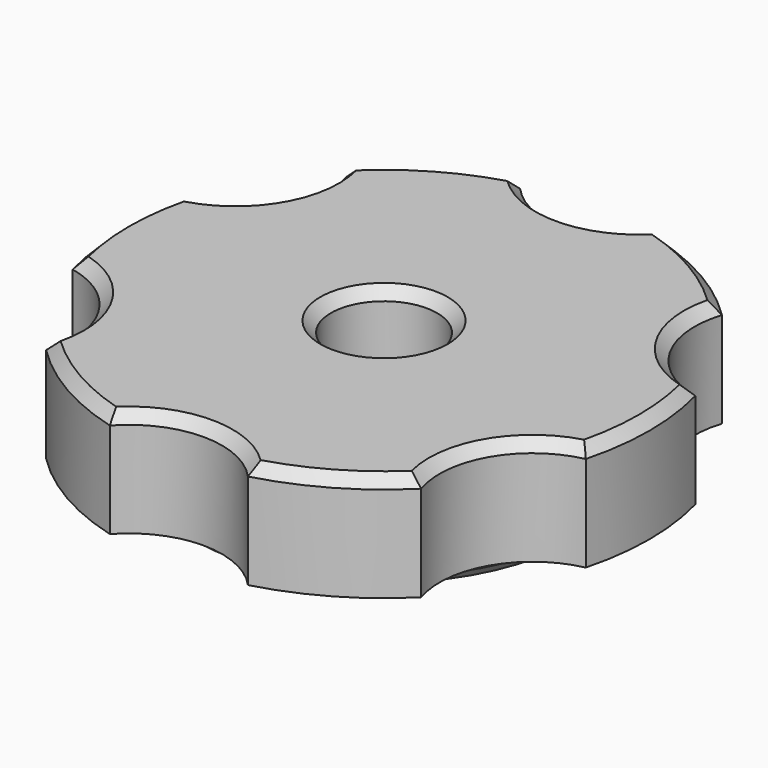
from build123d import *

# Parameters (mm, degrees)
SKETCH055_R              = 7.5
PAD016_DEPTH             = 1
SKETCH056_R              = 10
PAD017_DEPTH             = 4
SKETCH057_R              = 3.5
POCKET039_DEPTH          = 5.001
SKETCH058_R              = 2
POCKET040_DEPTH          = 5.001
CHAMFER013004014018_SIZE = 0.4


with BuildPart() as part:
    # Sketch055 → Pad016 (new body)
    with BuildSketch(Plane.XY):
        Circle(SKETCH055_R)
    extrude(amount=PAD016_DEPTH)

    # Sketch056 (on Face3 of Pad016) → Pad017 (join)
    with BuildSketch(Plane.XY.offset(1)):
        Circle(SKETCH056_R)
    extrude(amount=PAD017_DEPTH)

    # Sketch057 (on Face3 of Pad017) → Pocket039 (cut, through all)
    with BuildSketch(Plane.XY.offset(5)):
        with Locations((-10.392305, 6)):
            Circle(SKETCH057_R)
        with Locations((0, 12)):
            Circle(SKETCH057_R)
        with Locations((10.392305, 6)):
            Circle(SKETCH057_R)
        with Locations((10.392305, -6)):
            Circle(SKETCH057_R)
        with Locations((0, -12)):
            Circle(SKETCH057_R)
        with Locations((-10.392305, -6)):
            Circle(SKETCH057_R)
    extrude(amount=-POCKET039_DEPTH, mode=Mode.SUBTRACT)

    # Sketch058 (on Face4 of Pocket039) → Pocket040 (cut, through all)
    with BuildSketch(Plane.XY.offset(5)):
        Circle(SKETCH058_R)
    extrude(amount=-POCKET040_DEPTH, mode=Mode.SUBTRACT)

    # Chamfer013004014018
    chamfer013004014018_edges = [part.edges().sort_by_distance(p)[0] for p in [
        (9.915204, -1.299512, 5),
        (7.361216, -4.25, 5),
        (9.915204, 1.299512, 5),
        (5, -8.660254, 5),
        (7.361216, 4.25, 5),
        (0, -8.5, 5),
        (5, 8.660254, 5),
        (-5, -8.660254, 5),
        (0, 8.5, 5),
        (-6.935207, -6.546329, 5),
        (-5, 8.660254, 5),
        (-7.671535, -3.798317, 5),
        (-6.935207, 6.546329, 5),
        (-10, 0, 5),
        (-7.671535, 3.798317, 5),
        (-2, 0, 5),
        (-7.5, 0, 0),
        (-2, 0, 0),
    ]]
    chamfer(chamfer013004014018_edges, length=CHAMFER013004014018_SIZE)


with BuildPart() as part_1:
    # Body002006 placement: moved
    add(part.part.moved(Location((29.21, -9.2075, 30))))


solid = part_1.part
